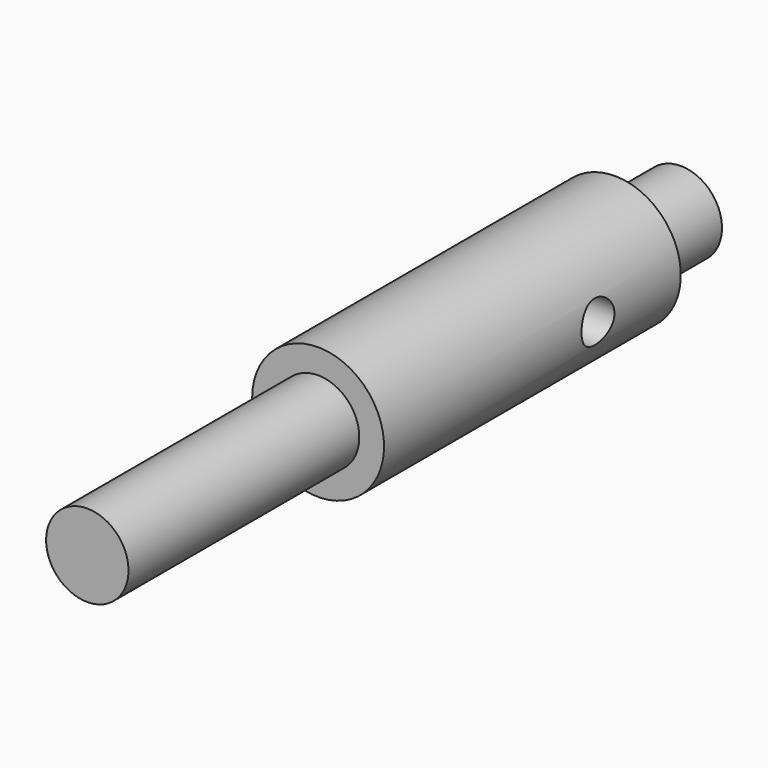
from build123d import *

# Parameters (mm, degrees)
F3_R     = 2.5
F4_DEPTH = 45


with BuildPart() as f1:
    # F0 (on Top) → F1 (revolve)
    with BuildSketch(Plane.XY):
        Polygon((0, -59.698787), (0, 30.301213), (-5, 30.301213), (-5, 20.301213), (-8, 20.301213), (-8, -24.698787), (-5, -24.698787), (-5, -59.698787), align=None)
    revolve(axis=Axis((0, -14.698787, 0), (0, -1, 0)))

    # F3 (on offset) → F4 (cut)
    with BuildSketch(Plane.YZ.offset(25)):
        with Locations((7.748153, 0)):
            Circle(F3_R)
    extrude(amount=-F4_DEPTH, mode=Mode.SUBTRACT)


solid = f1.part
